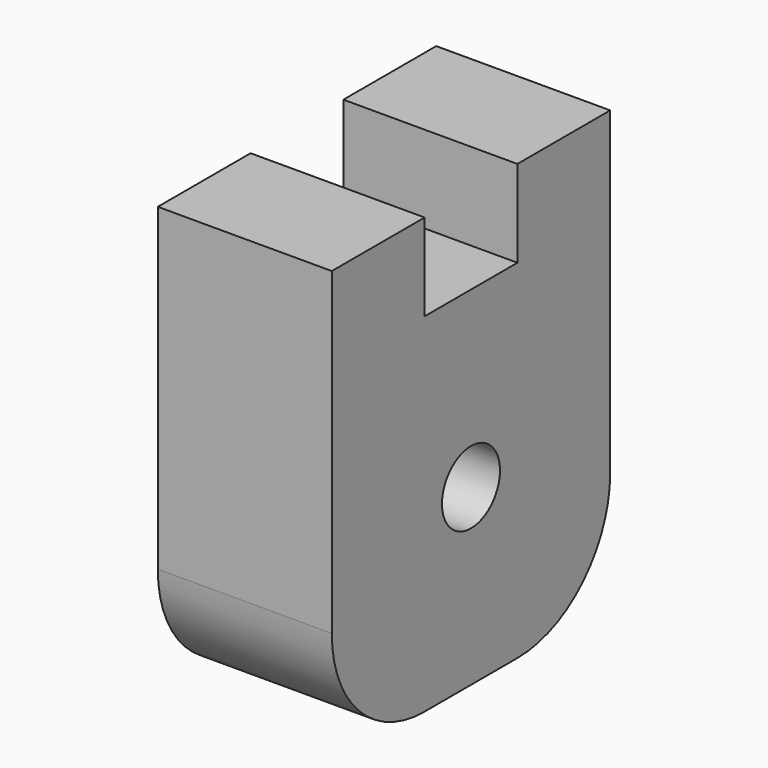
from build123d import *

# Parameters (mm, degrees)
F0_W     = 38.1
F0_H     = 76.2
F1_DEPTH = 76.2
F2_R     = 7.9375
F3_DEPTH = 59.944
F4_W     = 38.1
F4_H     = 25.4
F5_DEPTH = 19.05
F6_R     = 25.4


with BuildPart() as f1:
    # F0 (on Top) → F1 (new body)
    with BuildSketch(Plane.XY):
        with Locations((19.05, -38.1)):
            Rectangle(F0_W, F0_H)
    extrude(amount=F1_DEPTH)

    # F2 (on face) → F3 (cut)
    with BuildSketch(Plane(origin=(0, 0, 0), x_dir=(0, -1, 0), z_dir=(-1, 0, 0))):
        with Locations((38.1, 38.1)):
            Circle(F2_R)
    extrude(amount=-F3_DEPTH, mode=Mode.SUBTRACT)

    # F4 (on face) → F5 (join)
    with BuildSketch(Plane.XY.offset(76.2)):
        with Locations((19.05, -12.7)):
            Rectangle(F4_W, F4_H)
        with Locations((19.05, -63.5)):
            Rectangle(F4_W, F4_H)
    extrude(amount=F5_DEPTH)

    # F6
    f6_edges = [f1.edges().sort_by_distance(p)[0] for p in [
        (19.05, 0, 0),
        (19.05, -76.2, 0),
    ]]
    fillet(f6_edges, radius=F6_R)


solid = f1.part
